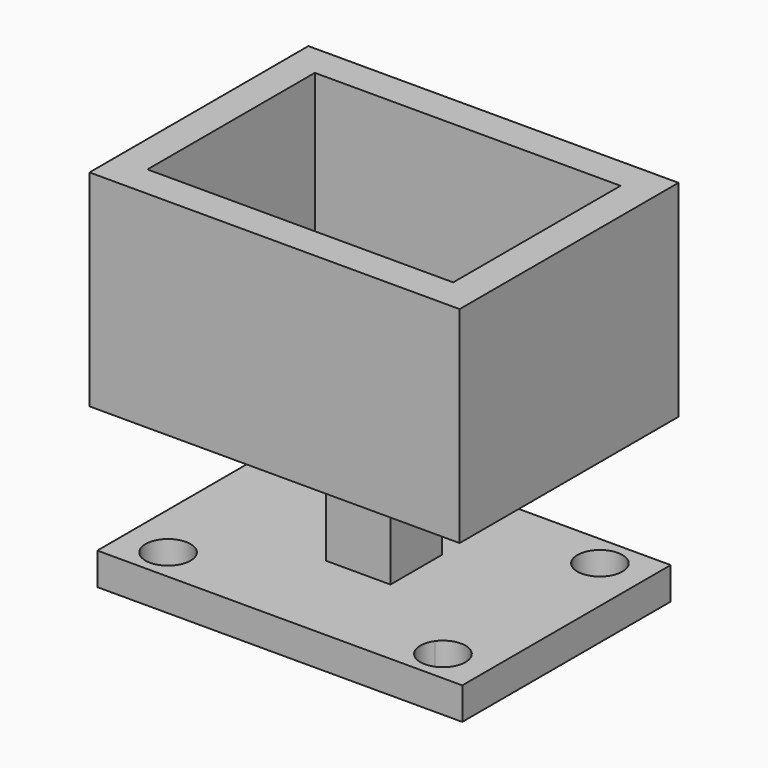
from build123d import *

# Parameters (mm, degrees)
F0_W     = 60.325
F0_H     = 41.275
F1_DEPTH = 6.35
F2_W     = 12.7
F2_H     = 12.7
F3_DEPTH = 25.4
F5_DEPTH = 6.35
F6_W     = 6.35
F6_H     = 41.275
F7_DEPTH = 40.64


with BuildPart() as f1:
    # F0 (on Top) → F1 (new body)
    with BuildSketch(Plane.XY):
        Rectangle(F0_W, F0_H)
    extrude(amount=F1_DEPTH)

    # F2 (on face) → F3 (join)
    with BuildSketch(Plane(origin=(0, 0, 0), x_dir=(1, 0, 0), z_dir=(0, 0, -1))):
        Rectangle(F2_W, F2_H)
    extrude(amount=F3_DEPTH)

    # F6 (on face) → F7 (join)
    with BuildSketch(Plane(origin=(0, 0, 0), x_dir=(1, 0, 0), z_dir=(0, 0, -1))):
        with Locations((-33.3375, 0)):
            Rectangle(F6_W, F6_H)
        Polygon((-36.5125, 20.6375), (-30.1625, 20.6375), (30.1625, 20.6375), (36.5125, 20.6375), (36.5125, 26.9875), (-36.5125, 26.9875), align=None)
        Polygon((30.1625, -20.6375), (-30.1625, -20.6375), (-36.5125, -20.6375), (-36.5125, -26.9875), (36.5125, -26.9875), (36.5125, -20.6375), align=None)
        with Locations((33.3375, 0)):
            Rectangle(F6_W, F6_H)
    extrude(amount=-F7_DEPTH)


with BuildPart() as f5:
    # F4 (on face) → F5 (new body)
    with BuildSketch(Plane(origin=(0, 0, -25.4), x_dir=(1, 0, 0), z_dir=(0, 0, -1))):
        with BuildLine():
            Line((-36.002361, 25.702715), (-36.002361, -25.702715))
            Line((-36.002361, -25.702715), (-30.73576, -21.942797))
            ThreePointArc((-30.73576, -21.942797), (-29.700806, -15.7424), (-23.500409, -16.777353))
            Line((-23.500409, -16.777353), (-6.35, -4.533376))
            Line((-6.35, -4.533376), (-6.35, 4.533376))
            Line((-6.35, 4.533376), (-23.500409, 16.777353))
            ThreePointArc((-23.500409, 16.777353), (-29.700806, 15.7424), (-30.73576, 21.942797))
            Line((-30.73576, 21.942797), (-36.002361, 25.702715))
        make_face()
        with BuildLine():
            Line((36.002361, 25.702715), (-36.002361, 25.702715))
            Line((-36.002361, 25.702715), (-30.73576, 21.942797))
            ThreePointArc((-30.73576, 21.942797), (-25.762087, 23.593194), (-22.673085, 19.360075))
            ThreePointArc((-22.673085, 19.360075), (-22.884966, 18.004077), (-23.500409, 16.777353))
            Line((-23.500409, 16.777353), (-6.35, 4.533376))
            Line((-6.35, 4.533376), (-6.35, 6.35))
            Line((-6.35, 6.35), (6.35, 6.35))
            Line((6.35, 6.35), (6.35, 4.533376))
            Line((6.35, 4.533376), (23.500409, 16.777353))
            ThreePointArc((23.500409, 16.777353), (24.535363, 22.97775), (30.73576, 21.942797))
            Line((30.73576, 21.942797), (36.002361, 25.702715))
        make_face()
        with BuildLine():
            Line((30.73576, -21.942797), (36.002361, -25.702715))
            Line((36.002361, -25.702715), (36.002361, 25.702715))
            Line((36.002361, 25.702715), (30.73576, 21.942797))
            ThreePointArc((30.73576, 21.942797), (31.351203, 20.716072), (31.563085, 19.360075))
            ThreePointArc((31.563085, 19.360075), (28.474082, 15.126956), (23.500409, 16.777353))
            Line((23.500409, 16.777353), (6.35, 4.533376))
            Line((6.35, 4.533376), (6.35, -4.533376))
            Line((6.35, -4.533376), (23.500409, -16.777353))
            ThreePointArc((23.500409, -16.777353), (28.474082, -15.126956), (31.563085, -19.360075))
            ThreePointArc((31.563085, -19.360075), (31.351203, -20.716072), (30.73576, -21.942797))
        make_face()
        with BuildLine():
            Line((-30.73576, -21.942797), (-36.002361, -25.702715))
            Line((-36.002361, -25.702715), (36.002361, -25.702715))
            Line((36.002361, -25.702715), (30.73576, -21.942797))
            ThreePointArc((30.73576, -21.942797), (24.535363, -22.97775), (23.500409, -16.777353))
            Line((23.500409, -16.777353), (6.35, -4.533376))
            Line((6.35, -4.533376), (6.35, -6.35))
            Line((6.35, -6.35), (-6.35, -6.35))
            Line((-6.35, -6.35), (-6.35, -4.533376))
            Line((-6.35, -4.533376), (-23.500409, -16.777353))
            ThreePointArc((-23.500409, -16.777353), (-22.884966, -18.004077), (-22.673085, -19.360075))
            ThreePointArc((-22.673085, -19.360075), (-25.762087, -23.593194), (-30.73576, -21.942797))
        make_face()
    extrude(amount=F5_DEPTH)


solid = Compound([f1.part, f5.part])
